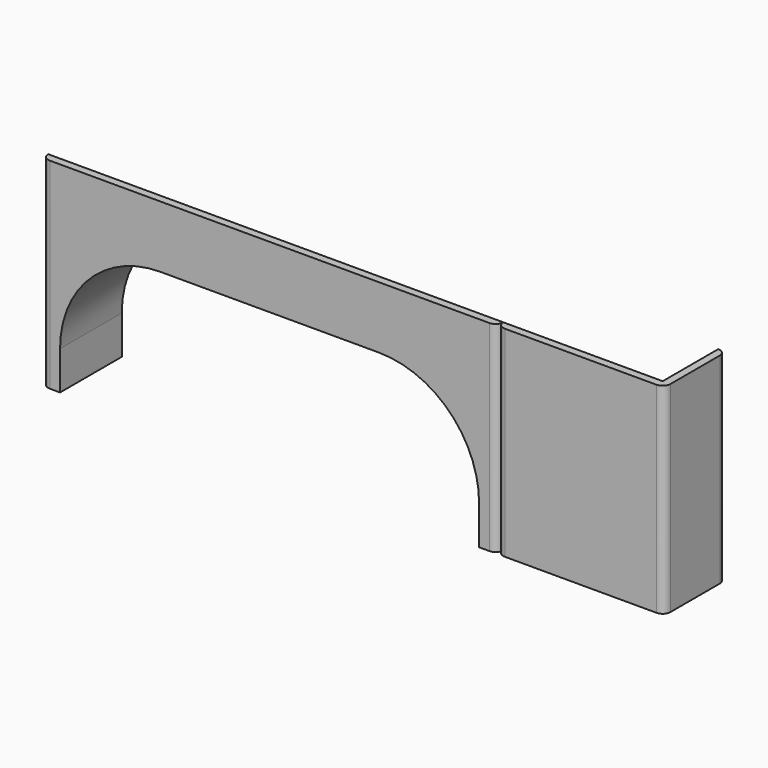
from build123d import *

# Parameters (mm, degrees)
PAD001_DEPTH    = 78.1
SKETCH005_W     = 177
SKETCH005_H     = 30
POCKET003_DEPTH = 18.101
SKETCH006_R     = 2.25
POCKET004_DEPTH = 78.101
SKETCH007_R     = 9
POCKET005_DEPTH = 54
POCKET006_DEPTH = 30.001
PAD_DEPTH       = 78.1
SKETCH001_W     = 65
SKETCH001_H     = 30
POCKET_DEPTH    = 18.101
SKETCH002_R     = 2.25
POCKET001_DEPTH = 78.101
SKETCH003_R     = 9
POCKET002_DEPTH = 54


with BuildPart() as centerpiece:
    # Sketch004 → Pad001 (new body)
    with BuildSketch(Plane.XY):
        with BuildLine():
            ThreePointArc((0, 3), (0.87868, 0.87868), (3, 0))
            Line((174, 0), (3, 0))
            ThreePointArc((174, 0), (176.12132, 0.87868), (177, 3))
            Line((177, 27), (177, 3))
            ThreePointArc((177, 27), (176.12132, 29.12132), (174, 30))
            Line((3, 30), (174, 30))
            ThreePointArc((3, 30), (0.87868, 29.12132), (0, 27))
            Line((0, 3), (0, 27))
        make_face()
    extrude(amount=PAD001_DEPTH)

    # Sketch005 → Pocket003 (cut, through all)
    with BuildSketch(Plane.XY.offset(60)):
        with Locations((88.5, 18)):
            Rectangle(SKETCH005_W, SKETCH005_H)
    extrude(amount=POCKET003_DEPTH, mode=Mode.SUBTRACT)

    # Sketch006 → Pocket004 (cut, through all)
    with BuildSketch(Plane.XY):
        with Locations((36, 15)):
            Circle(SKETCH006_R)
        with Locations((141, 15)):
            Circle(SKETCH006_R)
    extrude(amount=POCKET004_DEPTH, mode=Mode.SUBTRACT)

    # Sketch007 → Pocket005 (cut)
    with BuildSketch(Plane.XY):
        with Locations((36, 15)):
            Circle(SKETCH007_R)
        with Locations((141, 15)):
            Circle(SKETCH007_R)
    extrude(amount=POCKET005_DEPTH, mode=Mode.SUBTRACT)

    # Sketch008 → Pocket006 (cut, through all)
    with BuildSketch(Plane.XZ):
        with BuildLine():
            Line((7, 0), (7, 15))
            ThreePointArc((46, 54), (18.422836, 42.577164), (7, 15))
            Line((46, 54), (131, 54))
            ThreePointArc((170, 15), (158.577164, 42.577164), (131, 54))
            Line((170, 0), (170, 15))
            Line((7, 0), (170, 0))
        make_face()
    extrude(amount=-POCKET006_DEPTH, mode=Mode.SUBTRACT)


with BuildPart() as centerpiece_1:
    # Body001 placement: moved
    add(centerpiece.part.moved(Location((65, 0, 0))))


with BuildPart() as cornerfoot:
    # Sketch → Pad (new body)
    with BuildSketch(Plane.XY):
        with BuildLine():
            ThreePointArc((0, 3), (0.87868, 0.87868), (3, 0))
            Line((62, 0), (3, 0))
            ThreePointArc((62, 0), (64.12132, 0.87868), (65, 3))
            Line((65, 27), (65, 3))
            ThreePointArc((65, 27), (64.12132, 29.12132), (62, 30))
            Line((3, 30), (62, 30))
            ThreePointArc((3, 30), (0.87868, 29.12132), (0, 27))
            Line((0, 3), (0, 27))
        make_face()
    extrude(amount=PAD_DEPTH)

    # Sketch001 → Pocket (cut, through all)
    with BuildSketch(Plane.XY.offset(60)):
        with Locations((35.5, 18)):
            Rectangle(SKETCH001_W, SKETCH001_H)
    extrude(amount=POCKET_DEPTH, mode=Mode.SUBTRACT)

    # Sketch002 → Pocket001 (cut, through all)
    with BuildSketch(Plane.XY):
        with Locations((32.5, 15)):
            Circle(SKETCH002_R)
    extrude(amount=POCKET001_DEPTH, mode=Mode.SUBTRACT)

    # Sketch003 → Pocket002 (cut)
    with BuildSketch(Plane.XY):
        with Locations((32.5, 15)):
            Circle(SKETCH003_R)
    extrude(amount=POCKET002_DEPTH, mode=Mode.SUBTRACT)


with BuildPart() as part_mirroring:
    # Part__Mirroring: instance of CornerFoot
    add(cornerfoot.part.mirror(Plane(origin=(4e-06, 15, 44.000004), x_dir=(0, -1, 0), z_dir=(1, 0, 0))))


with BuildPart() as part_mirroring_1:
    # Part__Mirroring placement: moved
    add(part_mirroring.part.moved(Location((307, 0, 0))))


solid = Compound([centerpiece_1.part, part_mirroring_1.part])
